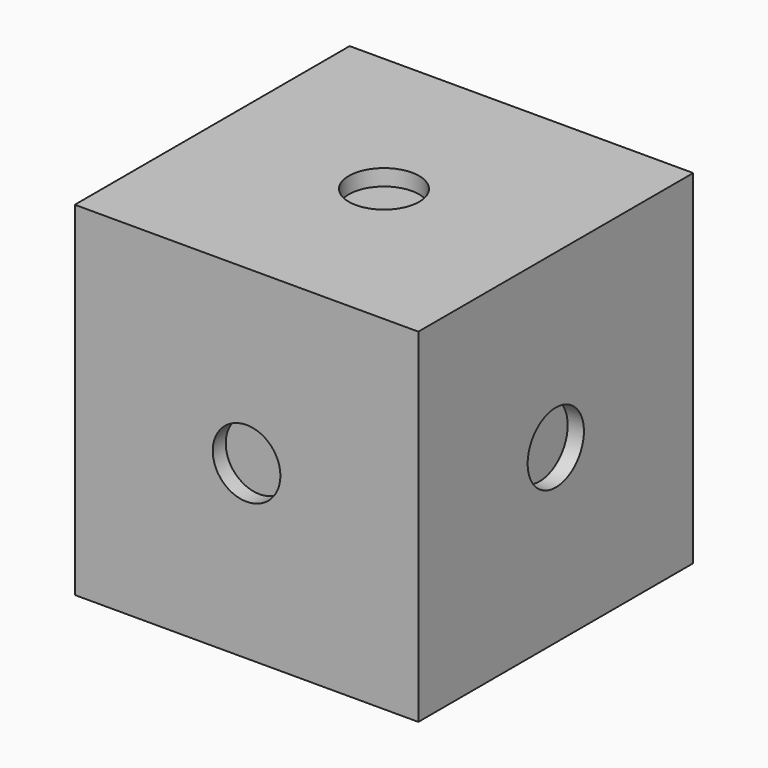
from build123d import *

# Parameters (mm, degrees)
F0_W      = 25.4
F0_H      = 25.4
F1_DEPTH  = 12.7
F7_R      = 2.6
F8_DEPTH  = 1.2
F6_R      = 2.6
F9_DEPTH  = 1.2
F5_R      = 2.6
F10_DEPTH = 1.2
F4_R      = 2.6
F11_DEPTH = 1.2
F2_R      = 2.5
F12_DEPTH = 1.2
F3_R      = 2.6
F13_DEPTH = 1.2


with BuildPart() as f1:
    # F0 (on Top) → F1 (new body, symmetric)
    with BuildSketch(Plane.XY):
        Rectangle(F0_W, F0_H)
    extrude(amount=F1_DEPTH, both=True)

    # F7 (on face) → F8 (cut)
    with BuildSketch(Plane(origin=(0, 12.7, 0), x_dir=(-1, 0, 0), z_dir=(0, 1, 0))):
        Circle(F7_R)
    extrude(amount=-F8_DEPTH, mode=Mode.SUBTRACT)

    # F6 (on face) → F9 (cut)
    with BuildSketch(Plane(origin=(0, 0, -12.7), x_dir=(1, 0, 0), z_dir=(0, 0, -1))):
        Circle(F6_R)
    extrude(amount=-F9_DEPTH, mode=Mode.SUBTRACT)

    # F5 (on face) → F10 (cut)
    with BuildSketch(Plane(origin=(-12.7, 0, 0), x_dir=(0, -1, 0), z_dir=(-1, 0, 0))):
        Circle(F5_R)
    extrude(amount=-F10_DEPTH, mode=Mode.SUBTRACT)

    # F4 (on face) → F11 (cut)
    with BuildSketch(Plane.XY.offset(12.7)):
        Circle(F4_R)
    extrude(amount=-F11_DEPTH, mode=Mode.SUBTRACT)

    # F2 (on face) → F12 (cut)
    with BuildSketch(Plane.XZ.offset(12.7)):
        Circle(F2_R)
    extrude(amount=-F12_DEPTH, mode=Mode.SUBTRACT)

    # F3 (on face) → F13 (cut)
    with BuildSketch(Plane.YZ.offset(12.7)):
        Circle(F3_R)
    extrude(amount=-F13_DEPTH, mode=Mode.SUBTRACT)


solid = f1.part
